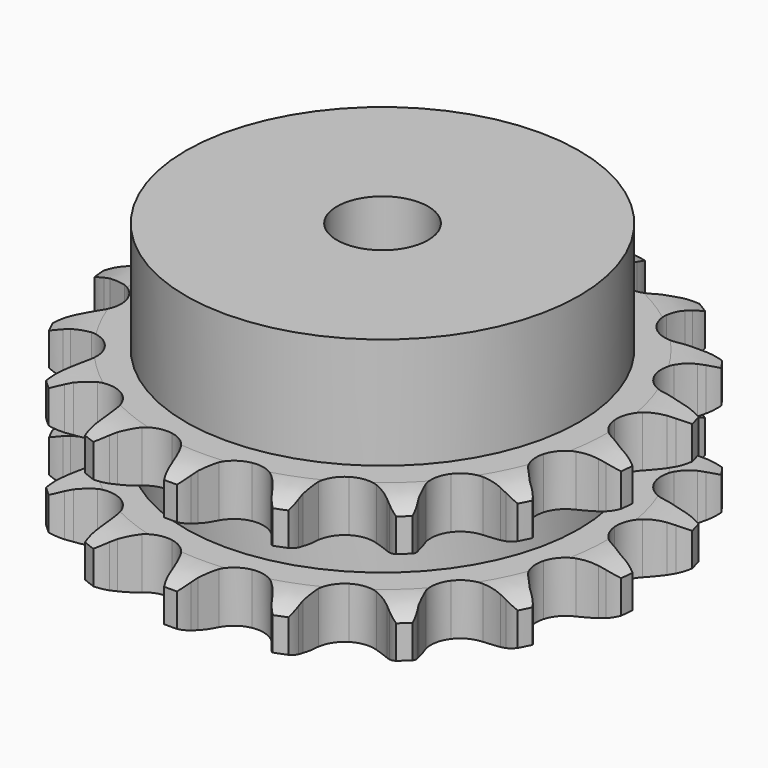
from build123d import *

# Parameters (mm, degrees)
PAD_DEPTH         = 25.5
SKETCH001_R       = 34.5
PAD001_DEPTH      = 45
SKETCH002_R       = 8
POCKET_DEPTH      = 0.001
POCKET_DEPTH_BACK = 45.001


with BuildPart() as part:
    # Sprocket → Pad (new body)
    with BuildSketch(Plane.XY):
        with BuildLine():
            ThreePointArc((-8.836145, 47.269199), (-7.344654, 45.791561), (-6.264221, 43.991388))
            Line((-6.264221, 43.991388), (-5.782246, 42.899818))
            ThreePointArc((-5.782246, 42.899818), (-4.996348, 41.390123), (-4.023701, 39.993422))
            ThreePointArc((-4.023701, 39.993422), (-2.23338, 38.564077), (0, 38.053892))
            ThreePointArc((0, 38.053892), (2.23338, 38.564077), (4.023701, 39.993422))
            ThreePointArc((4.023701, 39.993422), (4.996348, 41.390123), (5.782246, 42.899818))
            Line((5.782246, 42.899818), (6.264221, 43.991388))
            ThreePointArc((6.264221, 43.991388), (7.344654, 45.791561), (8.836145, 47.269199))
            ThreePointArc((8.836145, 47.269199), (9.693134, 45.352554), (10.05031, 43.283645))
            Line((10.05031, 43.283645), (10.105418, 42.091677))
            ThreePointArc((10.105418, 42.091677), (10.292881, 40.400029), (10.695301, 38.746284))
            ThreePointArc((10.695301, 38.746284), (11.848387, 36.766721), (13.746651, 35.484198))
            ThreePointArc((13.746651, 35.484198), (16.013516, 35.153141), (18.19928, 35.839227))
            Line((18.19928, 35.839227), (20.888986, 37.914101))
            ThreePointArc((20.888986, 37.914101), (21.301372, 38.345463), (21.732734, 38.75785))
            ThreePointArc((21.732734, 38.75785), (23.390506, 40.046164), (25.315064, 40.885232))
            ThreePointArc((25.315064, 40.885232), (25.42181, 38.788433), (25.007491, 36.730206))
            Line((25.007491, 36.730206), (24.628289, 35.598822))
            ThreePointArc((24.628289, 35.598822), (24.192, 33.953688), (23.969844, 32.266245))
            ThreePointArc((23.969844, 32.266245), (24.329963, 30.003816), (25.636741, 28.122166))
            ThreePointArc((25.636741, 28.122166), (27.630939, 26.994579), (29.916945, 26.844746))
            Line((29.916945, 26.844746), (33.174552, 27.807874))
            ThreePointArc((33.174552, 27.807874), (33.714917, 28.061136), (34.266121, 28.289849))
            ThreePointArc((34.266121, 28.289849), (36.27734, 28.89231), (38.375043, 28.979487))
            ThreePointArc((38.375043, 28.979487), (37.71713, 26.98572), (36.587272, 25.21615))
            Line((36.587272, 25.21615), (35.824974, 24.298149))
            ThreePointArc((35.824974, 24.298149), (34.823855, 22.921713), (34.007126, 21.428472))
            ThreePointArc((34.007126, 21.428472), (33.525643, 19.188728), (34.064447, 16.962079))
            ThreePointArc((34.064447, 16.962079), (35.51665, 15.190249), (37.594161, 14.224733))
            Line((37.594161, 14.224733), (40.979711, 13.94604))
            ThreePointArc((40.979711, 13.94604), (41.575076, 13.986997), (42.171679, 14.001148))
            ThreePointArc((42.171679, 14.001148), (44.264718, 13.83639), (46.25226, 13.159903))
            ThreePointArc((46.25226, 13.159903), (44.918543, 11.538435), (43.225739, 10.296512))
            Line((43.225739, 10.296512), (42.183297, 9.715876))
            ThreePointArc((42.183297, 9.715876), (40.752555, 8.794033), (39.451557, 7.696664))
            ThreePointArc((39.451557, 7.696664), (38.1935, 5.782097), (37.891561, 3.51117))
            ThreePointArc((37.891561, 3.51117), (38.60564, 1.334391), (40.194078, -0.316409))
            Line((40.194078, -0.316409), (43.250334, -1.799284))
            ThreePointArc((43.250334, -1.799284), (43.82029, -1.976163), (44.381718, -2.178486))
            ThreePointArc((44.381718, -2.178486), (46.273901, -3.088211), (47.882854, -4.437))
            ThreePointArc((47.882854, -4.437), (46.053458, -5.467179), (44.02633, -6.013726))
            Line((44.02633, -6.013726), (42.844532, -6.17858))
            ThreePointArc((42.844532, -6.17858), (41.177397, -6.521329), (39.567837, -7.074621))
            ThreePointArc((39.567837, -7.074621), (37.703112, -8.405439), (36.601209, -10.413942))
            ThreePointArc((36.601209, -10.413942), (36.480725, -12.701683), (37.365561, -14.814818))
            Line((37.365561, -14.814818), (39.679759, -17.301605))
            ThreePointArc((39.679759, -17.301605), (40.147331, -17.672432), (40.597759, -18.063903))
            ThreePointArc((40.597759, -18.063903), (42.033538, -19.595732), (43.046602, -21.434661))
            ThreePointArc((43.046602, -21.434661), (40.968597, -21.73442), (38.880922, -21.511778))
            Line((38.880922, -21.511778), (37.719376, -21.238585))
            ThreePointArc((37.719376, -21.238585), (36.041004, -20.95595), (34.340262, -20.890439))
            ThreePointArc((34.340262, -20.890439), (32.12071, -21.457773), (30.367662, -22.932594))
            ThreePointArc((30.367662, -22.932594), (29.428886, -25.022325), (29.490618, -27.312404))
            Line((29.490618, -27.312404), (30.750212, -30.467248))
            ThreePointArc((30.750212, -30.467248), (31.052252, -30.98194), (31.330849, -31.50969))
            ThreePointArc((31.330849, -31.50969), (32.116312, -33.456741), (32.396668, -35.537452))
            ThreePointArc((32.396668, -35.537452), (30.350701, -35.066308), (28.484429, -34.104544))
            Line((28.484429, -34.104544), (27.500009, -33.4302))
            ThreePointArc((27.500009, -33.4302), (26.037073, -32.560353), (24.474843, -31.884887))
            ThreePointArc((24.474843, -31.884887), (22.200229, -31.612116), (20.032793, -32.354071))
            ThreePointArc((20.032793, -32.354071), (18.402513, -33.963563), (17.632804, -36.121299))
            Line((17.632804, -36.121299), (17.66768, -39.518121))
            ThreePointArc((17.66768, -39.518121), (17.763395, -40.107166), (17.832533, -40.699919))
            ThreePointArc((17.832533, -40.699919), (17.8616, -42.799232), (17.371385, -44.840714))
            ThreePointArc((17.371385, -44.840714), (15.633775, -43.662296), (14.240957, -42.091303))
            Line((14.240957, -42.091303), (13.566613, -41.106882))
            ThreePointArc((13.566613, -41.106882), (12.516691, -39.767301), (11.303962, -38.573105))
            ThreePointArc((11.303962, -38.573105), (9.281483, -37.497068), (6.992384, -37.405952))
            ThreePointArc((6.992384, -37.405952), (4.890778, -38.317833), (3.393582, -40.051811))
            Line((3.393582, -40.051811), (2.199029, -43.231852))
            ThreePointArc((2.199029, -43.231852), (2.075493, -43.815697), (1.925836, -44.393398))
            ThreePointArc((1.925836, -44.393398), (1.19458, -46.361449), (0, -48.087988))
            ThreePointArc((0, -48.087988), (-1.19458, -46.361449), (-1.925836, -44.393398))
            Line((-1.925836, -44.393398), (-2.199029, -43.231852))
            ThreePointArc((-2.199029, -43.231852), (-2.694139, -41.603454), (-3.393582, -40.051811))
            ThreePointArc((-3.393582, -40.051811), (-4.890778, -38.317833), (-6.992384, -37.405952))
            ThreePointArc((-6.992384, -37.405952), (-9.281483, -37.497068), (-11.303962, -38.573105))
            Line((-11.303962, -38.573105), (-13.566613, -41.106882))
            ThreePointArc((-13.566613, -41.106882), (-13.892716, -41.606675), (-14.240957, -42.091303))
            ThreePointArc((-14.240957, -42.091303), (-15.633775, -43.662296), (-17.371385, -44.840714))
            ThreePointArc((-17.371385, -44.840714), (-17.8616, -42.799232), (-17.832533, -40.699919))
            Line((-17.832533, -40.699919), (-17.66768, -39.518121))
            ThreePointArc((-17.66768, -39.518121), (-17.541111, -37.82083), (-17.632804, -36.121299))
            ThreePointArc((-17.632804, -36.121299), (-18.402513, -33.963563), (-20.032793, -32.354071))
            ThreePointArc((-20.032793, -32.354071), (-22.200229, -31.612116), (-24.474843, -31.884887))
            Line((-24.474843, -31.884887), (-27.500009, -33.4302))
            ThreePointArc((-27.500009, -33.4302), (-27.984636, -33.778442), (-28.484429, -34.104544))
            ThreePointArc((-28.484429, -34.104544), (-30.350701, -35.066308), (-32.396668, -35.537452))
            ThreePointArc((-32.396668, -35.537452), (-32.116312, -33.456741), (-31.330849, -31.50969))
            Line((-31.330849, -31.50969), (-30.750212, -30.467248))
            ThreePointArc((-30.750212, -30.467248), (-30.019059, -28.930294), (-29.490618, -27.312404))
            ThreePointArc((-29.490618, -27.312404), (-29.428886, -25.022325), (-30.367662, -22.932594))
            ThreePointArc((-30.367662, -22.932594), (-32.12071, -21.457773), (-34.340262, -20.890439))
            Line((-34.340262, -20.890439), (-37.719376, -21.238585))
            ThreePointArc((-37.719376, -21.238585), (-38.297077, -21.388242), (-38.880922, -21.511778))
            ThreePointArc((-38.880922, -21.511778), (-40.968597, -21.73442), (-43.046602, -21.434661))
            ThreePointArc((-43.046602, -21.434661), (-42.033538, -19.595732), (-40.597759, -18.063903))
            Line((-40.597759, -18.063903), (-39.679759, -17.301605))
            ThreePointArc((-39.679759, -17.301605), (-38.442766, -16.132561), (-37.365561, -14.814818))
            ThreePointArc((-37.365561, -14.814818), (-36.480725, -12.701683), (-36.601209, -10.413942))
            ThreePointArc((-36.601209, -10.413942), (-37.703112, -8.405439), (-39.567837, -7.074621))
            Line((-39.567837, -7.074621), (-42.844532, -6.17858))
            ThreePointArc((-42.844532, -6.17858), (-43.437285, -6.109442), (-44.02633, -6.013726))
            ThreePointArc((-44.02633, -6.013726), (-46.053458, -5.467179), (-47.882854, -4.437))
            ThreePointArc((-47.882854, -4.437), (-46.273901, -3.088211), (-44.381718, -2.178486))
            Line((-44.381718, -2.178486), (-43.250334, -1.799284))
            ThreePointArc((-43.250334, -1.799284), (-41.674565, -1.156036), (-40.194078, -0.316409))
            ThreePointArc((-40.194078, -0.316409), (-38.60564, 1.334391), (-37.891561, 3.51117))
            ThreePointArc((-37.891561, 3.51117), (-38.1935, 5.782097), (-39.451557, 7.696664))
            Line((-39.451557, 7.696664), (-42.183297, 9.715876))
            ThreePointArc((-42.183297, 9.715876), (-42.711047, 9.994472), (-43.225739, 10.296512))
            ThreePointArc((-43.225739, 10.296512), (-44.918543, 11.538435), (-46.25226, 13.159903))
            ThreePointArc((-46.25226, 13.159903), (-44.264718, 13.83639), (-42.171679, 14.001148))
            Line((-42.171679, 14.001148), (-40.979711, 13.94604))
            ThreePointArc((-40.979711, 13.94604), (-39.277983, 13.976618), (-37.594161, 14.224733))
            ThreePointArc((-37.594161, 14.224733), (-35.51665, 15.190249), (-34.064447, 16.962079))
            ThreePointArc((-34.064447, 16.962079), (-33.525643, 19.188728), (-34.007126, 21.428472))
            Line((-34.007126, 21.428472), (-35.824974, 24.298149))
            ThreePointArc((-35.824974, 24.298149), (-36.216445, 24.748578), (-36.587272, 25.21615))
            ThreePointArc((-36.587272, 25.21615), (-37.71713, 26.98572), (-38.375043, 28.979487))
            ThreePointArc((-38.375043, 28.979487), (-36.27734, 28.89231), (-34.266121, 28.289849))
            Line((-34.266121, 28.289849), (-33.174552, 27.807874))
            ThreePointArc((-33.174552, 27.807874), (-31.576691, 27.221652), (-29.916945, 26.844746))
            ThreePointArc((-29.916945, 26.844746), (-27.630939, 26.994579), (-25.636741, 28.122166))
            ThreePointArc((-25.636741, 28.122166), (-24.329963, 30.003816), (-23.969844, 32.266245))
            Line((-23.969844, 32.266245), (-24.628289, 35.598822))
            ThreePointArc((-24.628289, 35.598822), (-24.830612, 36.16025), (-25.007491, 36.730206))
            ThreePointArc((-25.007491, 36.730206), (-25.42181, 38.788433), (-25.315064, 40.885232))
            ThreePointArc((-25.315064, 40.885232), (-23.390506, 40.046164), (-21.732734, 38.75785))
            Line((-21.732734, 38.75785), (-20.888986, 37.914101))
            ThreePointArc((-20.888986, 37.914101), (-19.610793, 36.790251), (-18.19928, 35.839227))
            ThreePointArc((-18.19928, 35.839227), (-16.013516, 35.153141), (-13.746651, 35.484198))
            ThreePointArc((-13.746651, 35.484198), (-11.848387, 36.766721), (-10.695301, 38.746284))
            Line((-10.695301, 38.746284), (-10.105418, 42.091677))
            ThreePointArc((-10.105418, 42.091677), (-10.091267, 42.688281), (-10.05031, 43.283645))
            ThreePointArc((-10.05031, 43.283645), (-9.693134, 45.352554), (-8.836145, 47.269199))
        make_face()
    extrude(amount=PAD_DEPTH)

    # Sketch → Groove (revolve, cut)
    with BuildSketch(Plane.XZ):
        with BuildLine():
            ThreePointArc((39.525762, 0), (43.10347, 0.405129), (46.5, 1.6))
            Line((46.5, 1.6), (46.5, 7.4))
            ThreePointArc((46.5, 7.4), (43.10347, 8.594871), (39.525762, 9))
            Line((34.5, 9), (39.525762, 9))
            Line((34.5, 16.5), (34.5, 9))
            Line((39.525762, 16.5), (34.5, 16.5))
            ThreePointArc((39.525762, 16.5), (43.10347, 16.905129), (46.5, 18.1))
            Line((46.5, 18.1), (46.5, 23.9))
            ThreePointArc((46.5, 23.9), (43.10347, 25.094871), (39.525762, 25.5))
            Line((39.525762, 25.5), (49.525762, 25.5))
            Line((49.525762, 25.5), (49.525762, 0))
            Line((39.525762, 0), (49.525762, 0))
        make_face()
    revolve(axis=Axis((0, 0, 0), (0, 0, 1)), mode=Mode.SUBTRACT)

    # Sketch001 → Pad001 (join)
    with BuildSketch(Plane.XY):
        Circle(SKETCH001_R)
    extrude(amount=PAD001_DEPTH)

    # Sketch002 → Pocket (cut, two sides)
    with BuildSketch(Plane.XY) as pocket_sk:
        Circle(SKETCH002_R)
    extrude(amount=-POCKET_DEPTH, mode=Mode.SUBTRACT)
    extrude(pocket_sk.sketch, amount=POCKET_DEPTH_BACK, mode=Mode.SUBTRACT)


solid = part.part
